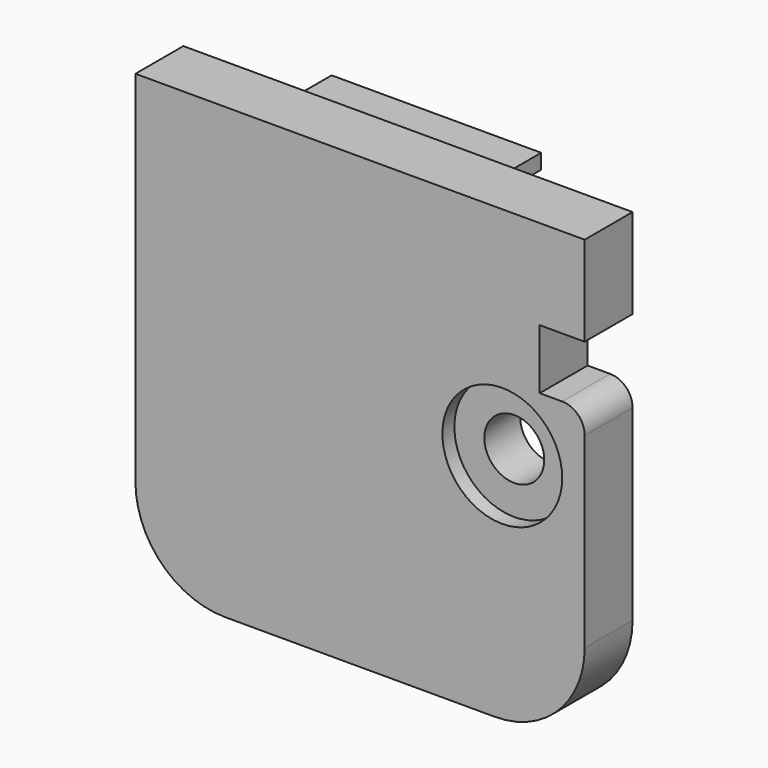
from build123d import *

# Parameters (mm, degrees)
BOX227_W          = 10
BOX227_H          = 10
BOX227_DEPTH      = 4
BOX217_W          = 13
BOX217_H          = 2
BOX217_DEPTH      = 1
BOX213_W          = 1
BOX213_H          = 2
BOX213_DEPTH      = 28
BOX210_W          = 2
BOX210_H          = 1
BOX210_DEPTH      = 28
BOX215_W          = 13
BOX215_H          = 2
BOX215_DEPTH      = 1
BOX212_W          = 12
BOX212_H          = 1
BOX212_DEPTH      = 2
BOX211_W          = 12
BOX211_H          = 1
BOX211_DEPTH      = 2
CYLINDER092_R     = 2
CYLINDER092_DEPTH = 5
CYLINDER093_R     = 4
CYLINDER093_DEPTH = 5
BOX073_W          = 30
BOX073_H          = 4
BOX073_DEPTH      = 30
FILLET057_R       = 6
CYLINDER088_R     = 2
CYLINDER088_DEPTH = 5
BOX221_W          = 6
BOX221_H          = 2.3
BOX221_DEPTH      = 14
FILLET055_R       = 2
BOX209_W          = 6
BOX209_H          = 7
BOX209_DEPTH      = 3
BOX222_W          = 6
BOX222_H          = 7
BOX222_DEPTH      = 3
FILLET059_R       = 1.5


with BuildPart() as cube215:
    # Box227 → Box227 (new body)
    with BuildSketch(Plane(origin=(28, 40, -16), x_dir=(1, 0, 0), z_dir=(0, 0, 1))):
        with Locations((5, 5)):
            Rectangle(BOX227_W, BOX227_H)
    extrude(amount=BOX227_DEPTH)


with BuildPart() as cube206:
    # Box217 → Box217 (new body)
    with BuildSketch(Plane(origin=(9.5, 51, -34.5), x_dir=(1, 0, 0), z_dir=(0, 0, 1))):
        with Locations((6.5, 1)):
            Rectangle(BOX217_W, BOX217_H)
    extrude(amount=BOX217_DEPTH)


with BuildPart() as cube202:
    # Box213 → Box213 (new body)
    with BuildSketch(Plane(origin=(8.5, 51, -34.5), x_dir=(1, 0, 0), z_dir=(0, 0, 1))):
        with Locations((0.5, 1)):
            Rectangle(BOX213_W, BOX213_H)
    extrude(amount=BOX213_DEPTH)


with BuildPart() as cube199:
    # Box210 → Box210 (new body)
    with BuildSketch(Plane(origin=(8.5, 50, -34.5), x_dir=(1, 0, 0), z_dir=(0, 0, 1))):
        with Locations((1, 0.5)):
            Rectangle(BOX210_W, BOX210_H)
    extrude(amount=BOX210_DEPTH)


with BuildPart() as cube204:
    # Box215 → Box215 (new body)
    with BuildSketch(Plane(origin=(9.5, 51, -7.5), x_dir=(1, 0, 0), z_dir=(0, 0, 1))):
        with Locations((6.5, 1)):
            Rectangle(BOX215_W, BOX215_H)
    extrude(amount=BOX215_DEPTH)


with BuildPart() as cube201:
    # Box212 → Box212 (new body)
    with BuildSketch(Plane(origin=(10.5, 50, -8.5), x_dir=(1, 0, 0), z_dir=(0, 0, 1))):
        with Locations((6, 0.5)):
            Rectangle(BOX212_W, BOX212_H)
    extrude(amount=BOX212_DEPTH)


with BuildPart() as fusion070:
    # Box211 → Box211 (new body)
    with BuildSketch(Plane(origin=(10.5, 50, -34.5), x_dir=(1, 0, 0), z_dir=(0, 0, 1))):
        with Locations((6, 0.5)):
            Rectangle(BOX211_W, BOX211_H)
    extrude(amount=BOX211_DEPTH)

    # Fusion070: union Cube206, Cube202, Cube199, Cube204, Cube201
    add(cube206.part)
    add(cube202.part)
    add(cube199.part)
    add(cube204.part)
    add(cube201.part)


with BuildPart() as cylinder173:
    # Cylinder092 → Cylinder092 (new body)
    with BuildSketch(Plane(origin=(25.5, 50, -20.5), x_dir=(1, 0, 0), z_dir=(0, -1, 0))):
        Circle(CYLINDER092_R)
    extrude(amount=CYLINDER092_DEPTH)


with BuildPart() as cylinder174:
    # Cylinder093 → Cylinder093 (new body)
    with BuildSketch(Plane(origin=(25.5, 47, -20.5), x_dir=(1, 0, 0), z_dir=(0, -1, 0))):
        Circle(CYLINDER093_R)
    extrude(amount=CYLINDER093_DEPTH)


with BuildPart() as cut118:
    # Box073 → Box073 (new body)
    with BuildSketch(Plane(origin=(1, 46, -36), x_dir=(1, 0, 0), z_dir=(0, 0, 1))):
        with Locations((15, 2)):
            Rectangle(BOX073_W, BOX073_H)
    extrude(amount=BOX073_DEPTH)

    # Fillet057
    fillet057_edges = [cut118.edges().sort_by_distance(p)[0] for p in [
        (1, 48, -36),
        (31, 48, -36),
    ]]
    fillet(fillet057_edges, radius=FILLET057_R)

    # Cut117: cut Cylinder174
    add(cylinder174.part, mode=Mode.SUBTRACT)

    # Cut118: cut Cylinder173
    add(cylinder173.part, mode=Mode.SUBTRACT)


with BuildPart() as cylinder169:
    # Cylinder088 → Cylinder088 (new body)
    with BuildSketch(Plane(origin=(5.5, 60, -20.5), x_dir=(1, 0, 0), z_dir=(0, -1, 0))):
        Circle(CYLINDER088_R)
    extrude(amount=CYLINDER088_DEPTH)


with BuildPart() as fillet055:
    # Box221 → Box221 (new body)
    with BuildSketch(Plane(origin=(2.5, 57, -27.5), x_dir=(1, 0, 0), z_dir=(0, 0, 1))):
        with Locations((3, 1.15)):
            Rectangle(BOX221_W, BOX221_H)
    extrude(amount=BOX221_DEPTH)

    # Cut112: cut Cylinder169
    add(cylinder169.part, mode=Mode.SUBTRACT)

    # Fillet055
    fillet055_edges = [fillet055.edges().sort_by_distance(p)[0] for p in [
        (5.5, 59.3, -13.5),
        (5.5, 59.3, -27.5),
    ]]
    fillet(fillet055_edges, radius=FILLET055_R)


with BuildPart() as cube198:
    # Box209 → Box209 (new body)
    with BuildSketch(Plane(origin=(2.5, 50, -16.5), x_dir=(1, 0, 0), z_dir=(0, 0, 1))):
        with Locations((3, 3.5)):
            Rectangle(BOX209_W, BOX209_H)
    extrude(amount=BOX209_DEPTH)


with BuildPart() as fillet059:
    # Box222 → Box222 (new body)
    with BuildSketch(Plane(origin=(2.5, 50, -27.5), x_dir=(1, 0, 0), z_dir=(0, 0, 1))):
        with Locations((3, 3.5)):
            Rectangle(BOX222_W, BOX222_H)
    extrude(amount=BOX222_DEPTH)

    # Fusion068: union Fillet055, Cube198
    add(fillet055.part)
    add(cube198.part)

    # Fusion072: union Fusion070, Cut118
    add(fusion070.part)
    add(cut118.part)

    # Cut119: cut Cube215
    add(cube215.part, mode=Mode.SUBTRACT)

    # Fillet059
    fillet059_edges = [fillet059.edges().sort_by_distance(p)[0] for p in [
        (31, 48, -16),
    ]]
    fillet(fillet059_edges, radius=FILLET059_R)


solid = fillet059.part
